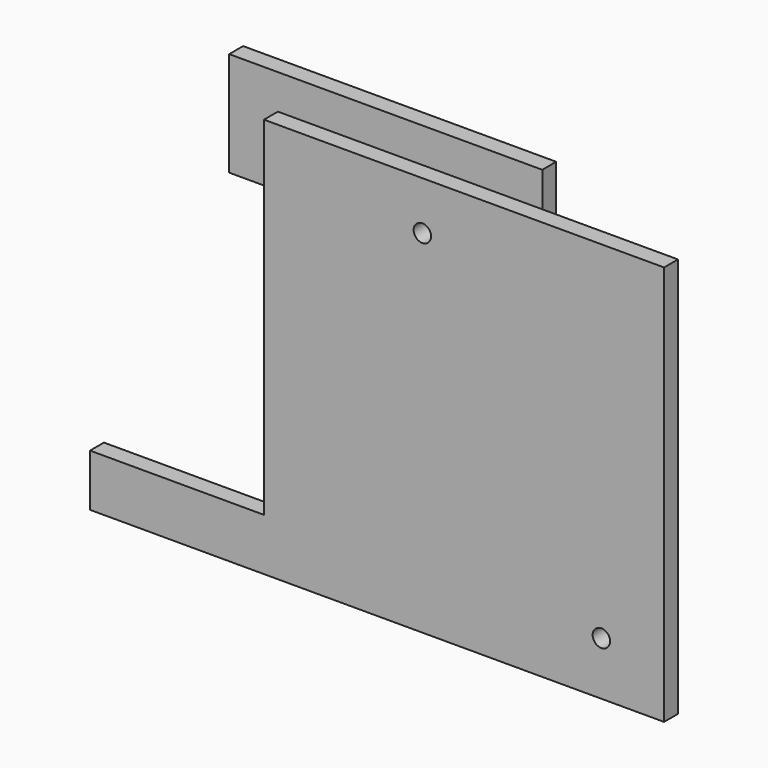
from build123d import *

# Parameters (mm, degrees)
F2_R     = 5
F3_DEPTH = 10
F5_R     = 5
F6_DEPTH = 10


with BuildPart() as f3:
    # F2 (on offset) → F3 (new body)
    with BuildSketch(Plane.XZ.offset(100)):
        Polygon((200, 360), (200, 300), (240, 300), (320, 220), (320, 128.501415), (380, 128.501415), (380, 360), align=None)
        with Locations((350, 158.501415)):
            Circle(F2_R, mode=Mode.SUBTRACT)
        Polygon((320, 221.414214), (241.414214, 300), (320, 300), align=None, mode=Mode.SUBTRACT)
        with Locations((247.100849, 330)):
            Circle(F2_R, mode=Mode.SUBTRACT)
    extrude(amount=F3_DEPTH)


with BuildPart() as f6:
    # F5 (on offset) → F6 (new body)
    with BuildSketch(Plane.XZ.offset(200)):
        Polygon((300, 400), (300, 200), (200, 200), (200, 170), (530, 170), (530, 400), align=None)
        with Locations((493.950262, 200.671572)):
            Circle(F5_R, mode=Mode.SUBTRACT)
        with Locations((391.051111, 372.170157)):
            Circle(F5_R, mode=Mode.SUBTRACT)
    extrude(amount=F6_DEPTH)


solid = Compound([f3.part, f6.part])
